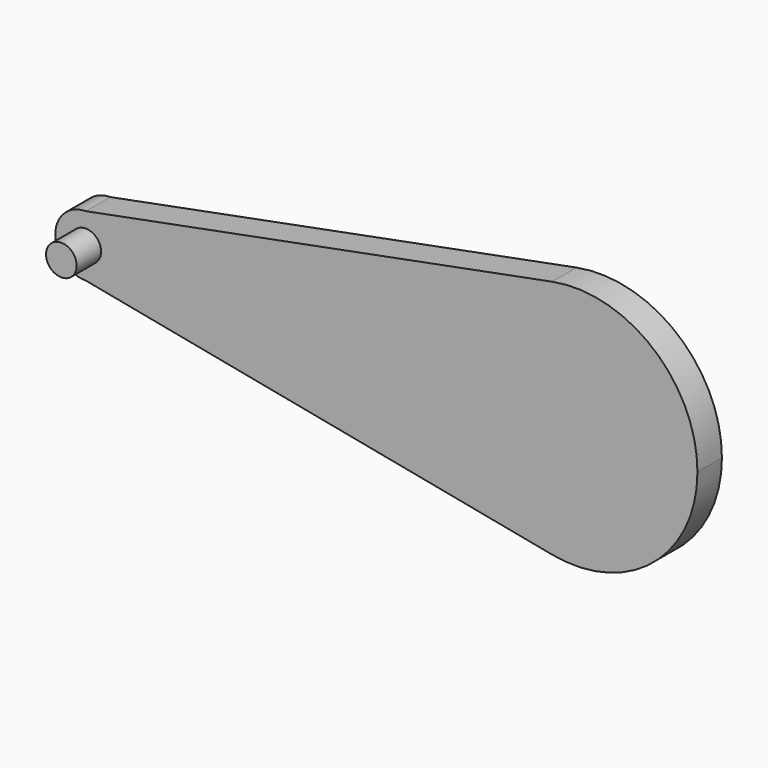
from build123d import *

# Parameters (mm, degrees)
F1_DEPTH = 3.175
F2_R     = 1.5875
F3_DEPTH = 3.175


with BuildPart() as f1:
    # F0 (on Front) → F1 (new body)
    with BuildSketch(Plane.XZ):
        with BuildLine():
            ThreePointArc((-2.396699, -12.471802), (8.088632, -9.791018), (12.7, 0))
            ThreePointArc((12.7, 0), (8.089103, 9.790629), (-2.395498, 12.472032))
            ThreePointArc((-2.395498, 12.472032), (-12.7, 0.000611), (-2.396699, -12.471802))
        make_face()
        with BuildLine():
            ThreePointArc((-2.396699, -12.471802), (-12.7, 0.000611), (-2.395498, 12.472032))
            Line((-2.395498, 12.472032), (-50.8, 3.175))
            ThreePointArc((-50.8, 3.175), (-48.554936, 2.245064), (-47.625, 0))
            ThreePointArc((-47.625, 0), (-48.546238, -2.236332), (-50.775351, -3.174904))
            Line((-50.775351, -3.174904), (-2.396699, -12.471802))
        make_face()
        with BuildLine():
            ThreePointArc((-47.625, 0), (-48.554936, 2.245064), (-50.8, 3.175))
            ThreePointArc((-50.8, 3.175), (-53.974976, -0.012325), (-50.775351, -3.174904))
            ThreePointArc((-50.775351, -3.174904), (-48.546238, -2.236332), (-47.625, 0))
        make_face()
    extrude(amount=F1_DEPTH)

    # F2 (on face) → F3 (join)
    with BuildSketch(Plane.XZ.offset(3.175)):
        with Locations((-50.8, 0)):
            Circle(F2_R)
    extrude(amount=F3_DEPTH)


solid = f1.part
